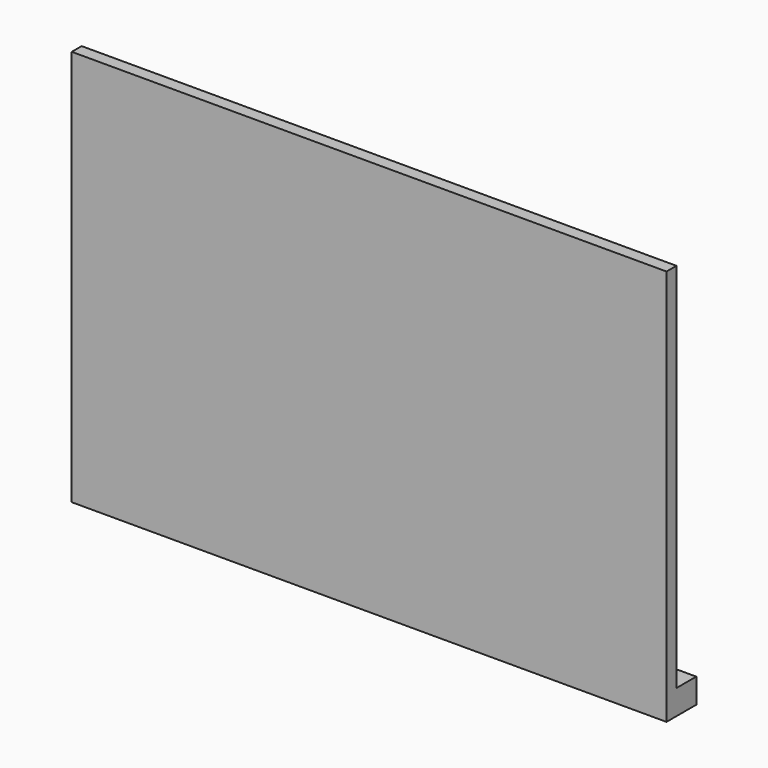
from build123d import *

# Parameters (mm, degrees)
F0_W     = 304.8
F0_H     = 203.2
F1_DEPTH = 6.35
F2_W     = 304.8
F2_H     = 12.7
F3_DEPTH = 12.7


with BuildPart() as f1:
    # F0 (on Front) → F1 (new body)
    with BuildSketch(Plane.XZ):
        Rectangle(F0_W, F0_H)
    extrude(amount=F1_DEPTH)

    # F2 (on face) → F3 (join)
    with BuildSketch(Plane(origin=(0, 0, 0), x_dir=(-1, 0, 0), z_dir=(0, 1, 0))):
        with Locations((0, -95.25)):
            Rectangle(F2_W, F2_H)
        with Locations((0, -95.25)):
            Rectangle(F2_W, F2_H)
    extrude(amount=F3_DEPTH)


solid = f1.part
